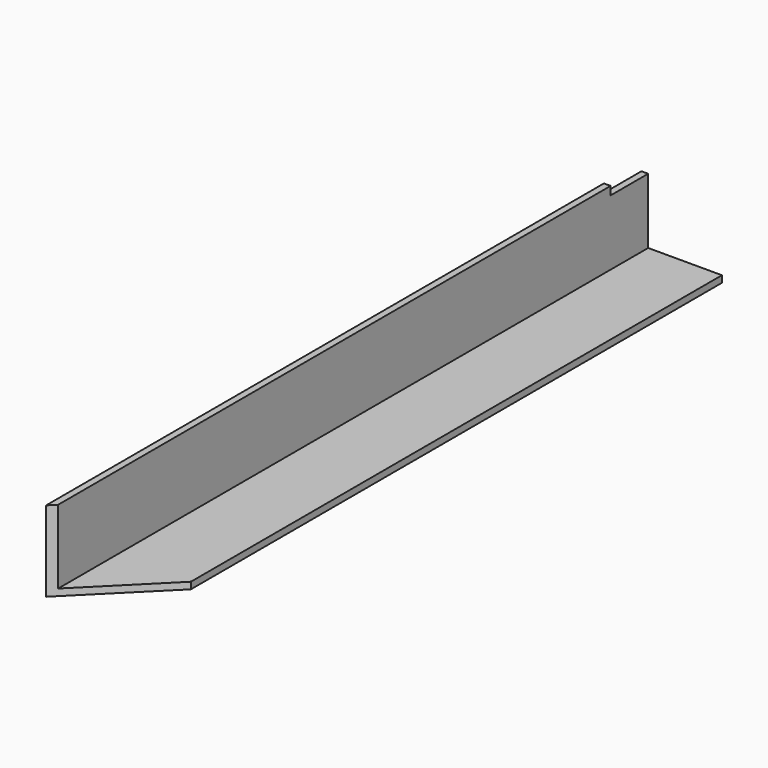
from build123d import *

# Parameters (mm, degrees)
F1_DEPTH = 352.425
F2_W     = 22.225
F2_H     = 3.96875
F3_DEPTH = 25.4
F5_DEPTH = 38.1


with BuildPart() as f1:
    # F0 (on Front) → F1 (new body)
    with BuildSketch(Plane.XZ):
        Polygon((-18.553972, 20.450408), (-21.728972, 20.450408), (-21.728972, -17.649592), (16.371028, -17.649592), (16.371028, -14.474592), (-18.553972, -14.474592), align=None)
    extrude(amount=F1_DEPTH)

    # F2 (on face) → F3 (cut)
    with BuildSketch(Plane.YZ.offset(-18.553972)):
        with Locations((-11.1125, 18.466033)):
            Rectangle(F2_W, F2_H)
    extrude(amount=-F3_DEPTH, mode=Mode.SUBTRACT)

    # F4 (on face) → F5 (cut)
    with BuildSketch(Plane(origin=(0, 0, -17.649592), x_dir=(1, 0, 0), z_dir=(0, 0, -1))):
        Polygon((16.371028, 352.425), (-21.728972, 352.425), (16.371028, 314.325), align=None)
    extrude(amount=-F5_DEPTH, mode=Mode.SUBTRACT)


solid = f1.part
